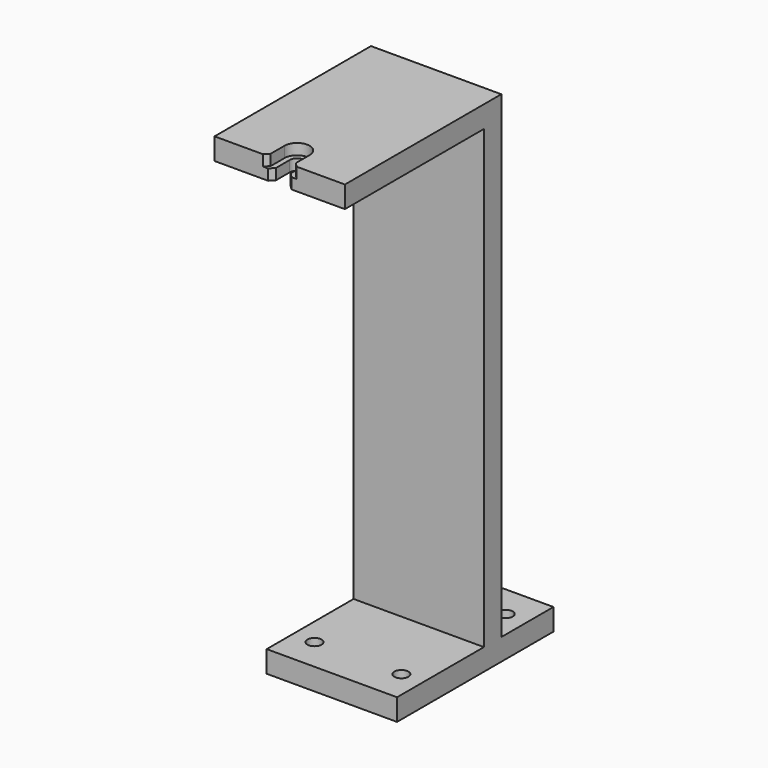
from build123d import *

# Parameters (mm, degrees)
F0_W      = 60
F0_H      = 230
F1_DEPTH  = 10
F2_W      = 60
F2_H      = 10
F3_DEPTH  = 30
F4_R      = 3.25
F5_DEPTH  = 10.001
F6_W      = 60
F6_H      = 10
F7_DEPTH  = 80
F8_W      = 60
F8_H      = 10
F9_DEPTH  = 50
F10_R     = 3.25
F11_DEPTH = 10.001
F13_DEPTH = 230.001
F15_DEPTH = 5
F16_SIZE  = 2


with BuildPart() as f1:
    # F0 (on Front) → F1 (new body)
    with BuildSketch(Plane.XZ):
        Rectangle(F0_W, F0_H)
    extrude(amount=F1_DEPTH)

    # F2 (on face) → F3 (join)
    with BuildSketch(Plane(origin=(0, 0, 0), x_dir=(-1, 0, 0), z_dir=(0, 1, 0))):
        with Locations((0, -110)):
            Rectangle(F2_W, F2_H)
    extrude(amount=F3_DEPTH)

    # F4 (on face) → F5 (cut, through all)
    with BuildSketch(Plane.XY.offset(-105)):
        with Locations((20, 15)):
            Circle(F4_R)
        with Locations((-20, 15)):
            Circle(F4_R)
    extrude(amount=-F5_DEPTH, mode=Mode.SUBTRACT)

    # F6 (on face) → F7 (join)
    with BuildSketch(Plane.XZ.offset(10)):
        with Locations((0, 110)):
            Rectangle(F6_W, F6_H)
    extrude(amount=F7_DEPTH)

    # F8 (on face) → F9 (join)
    with BuildSketch(Plane.XZ.offset(10)):
        with Locations((0, -110)):
            Rectangle(F8_W, F8_H)
    extrude(amount=F9_DEPTH)

    # F10 (on face) → F11 (cut, through all)
    with BuildSketch(Plane.XY.offset(-105)):
        with Locations((20, -45)):
            Circle(F10_R)
        with Locations((-20, -45)):
            Circle(F10_R)
    extrude(amount=-F11_DEPTH, mode=Mode.SUBTRACT)

    # F12 (on face) → F13 (cut, through all)
    with BuildSketch(Plane.XY.offset(115)):
        with BuildLine():
            Line((3.4, -90), (3.4, -80))
            ThreePointArc((3.4, -80), (0, -76.6), (-3.4, -80))
            Line((-3.4, -80), (-3.4, -90))
            Line((-3.4, -90), (0, -90))
            Line((0, -90), (3.4, -90))
        make_face()
    extrude(amount=-F13_DEPTH, mode=Mode.SUBTRACT)

    # F14 (on face) → F15 (cut)
    with BuildSketch(Plane.XY.offset(115)):
        with BuildLine():
            Line((5.8, -90), (5.8, -80))
            ThreePointArc((5.8, -80), (0, -74.2), (-5.8, -80))
            Line((-5.8, -80), (-5.8, -90))
            Line((-5.8, -90), (5.8, -90))
        make_face()
    extrude(amount=-F15_DEPTH, mode=Mode.SUBTRACT)

    # F16
    f16_edges = [f1.edges().sort_by_distance(p)[0] for p in [
        (3.4, -90, 107.5),
        (-3.4, -90, 107.5),
        (5.8, -90, 112.5),
        (-5.8, -90, 112.5),
    ]]
    chamfer(f16_edges, length=F16_SIZE)


solid = f1.part
